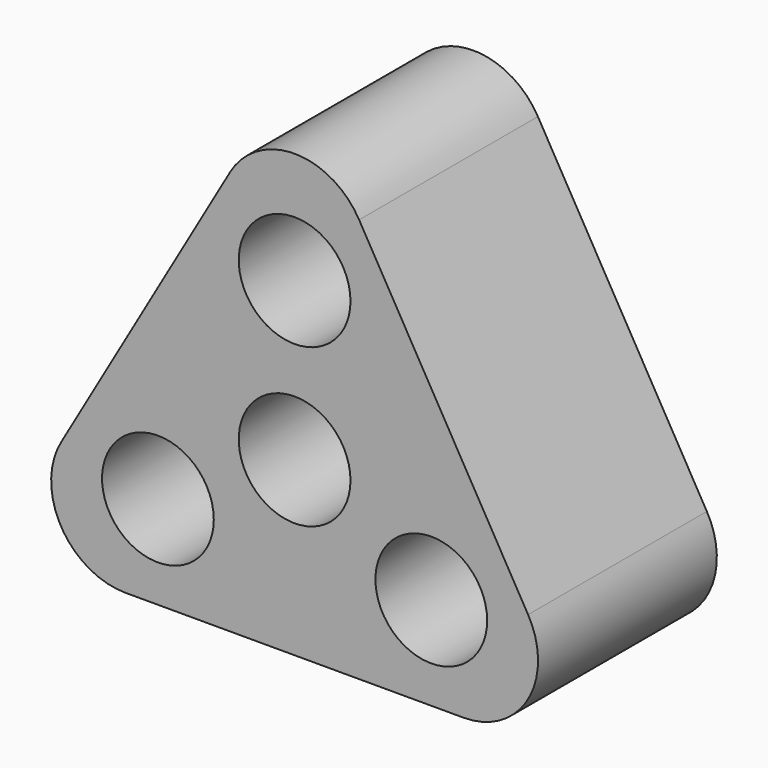
from build123d import *

# Parameters (mm, degrees)
F0_R      = 9.525
F1_DEPTH  = 12.7
F1_FACE_R = 9.525
F2_DEPTH  = 25.4


with BuildPart() as f1:
    # F0 (on Front) → F1 (new body)
    with BuildSketch(Plane.XZ):
        with BuildLine():
            Line((-79.602955, 0), (-21.997045, 0))
            ThreePointArc((-21.997045, 0), (-10.998523, 6.35), (-10.998523, 19.05))
            Line((-10.998523, 19.05), (-39.801477, 68.938181))
            ThreePointArc((-39.801477, 68.938181), (-50.8, 75.288181), (-61.798523, 68.938181))
            Line((-61.798523, 68.938181), (-90.601477, 19.05))
            ThreePointArc((-90.601477, 19.05), (-90.601477, 6.35), (-79.602955, 0))
        make_face()
        with Locations((-74.103693, 15.875)):
            Circle(F0_R, mode=Mode.SUBTRACT)
        with Locations((-27.496307, 15.875)):
            Circle(F0_R, mode=Mode.SUBTRACT)
        with Locations((-50.8, 29.329394)):
            Circle(F0_R, mode=Mode.SUBTRACT)
        with Locations((-50.8, 56.238181)):
            Circle(F0_R, mode=Mode.SUBTRACT)
    extrude(amount=F1_DEPTH)

    # F1_face (on face) → F2 (join)
    with BuildSketch(Plane(origin=(-50.8, -12.7, 29.329394), x_dir=(1, 0, 0), z_dir=(0, -1, 0))):
        with BuildLine():
            Line((-28.802955, -29.329394), (28.802955, -29.329394))
            ThreePointArc((28.802955, -29.329394), (39.801477, -22.979394), (39.801477, -10.279394))
            Line((39.801477, -10.279394), (10.998523, 39.608787))
            ThreePointArc((10.998523, 39.608787), (0, 45.958787), (-10.998523, 39.608787))
            Line((-10.998523, 39.608787), (-39.801477, -10.279394))
            ThreePointArc((-39.801477, -10.279394), (-39.801477, -22.979394), (-28.802955, -29.329394))
        make_face()
        with Locations((-23.303693, -13.454394)):
            Circle(F1_FACE_R, mode=Mode.SUBTRACT)
        with Locations((23.303693, -13.454394)):
            Circle(F1_FACE_R, mode=Mode.SUBTRACT)
        Circle(F1_FACE_R, mode=Mode.SUBTRACT)
        with Locations((0, 26.908787)):
            Circle(F1_FACE_R, mode=Mode.SUBTRACT)
    extrude(amount=F2_DEPTH)


solid = f1.part
